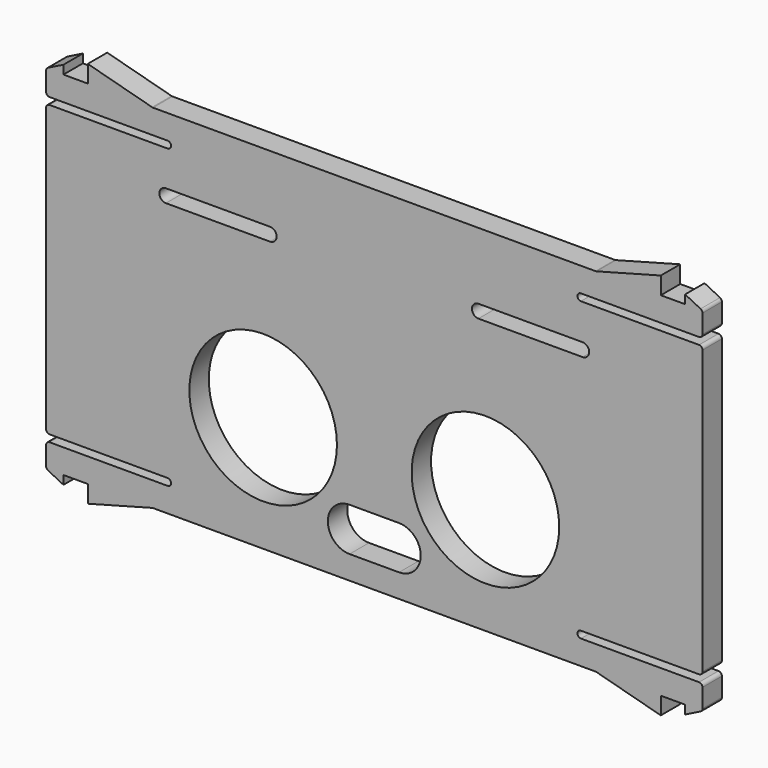
from build123d import *

# Parameters (mm, degrees)
PAD009_DEPTH    = 2.8
FILLET004_R     = 0.4
POCKET014_DEPTH = 2.801
SKETCH028_R     = 8.5
POCKET017_DEPTH = 2.801


with BuildPart() as part:
    # Sketch009 → Pad009 (new body)
    with BuildSketch(Plane.XZ.offset(60.5)):
        with BuildLine():
            Line((37.8, 3.2), (37.8, 0.4))
            Line((37.8, 0.4), (23.8, 0.4))
            ThreePointArc((23.8, 0.4), (23.4, 0), (23.8, -0.4))
            Line((23.8, -0.4), (37.8, -0.4))
            Line((37.8, -0.4), (37.8, -33.8))
            Line((37.8, -33.8), (23.8, -33.8))
            ThreePointArc((23.8, -33.8), (23.4, -34.2), (23.8, -34.6))
            Line((23.8, -34.6), (37.8, -34.6))
            Line((37.8, -34.6), (37.8, -37.4))
            Line((37.8, -37.4), (35.8, -38.4))
            Line((35.8, -38.4), (35.8, -37.4))
            Line((35.8, -37.4), (33, -37.4))
            Line((33, -37.4), (33, -39.4))
            Line((33, -39.4), (25.535898, -37.4))
            Line((25.535898, -37.4), (-25.535898, -37.4))
            Line((-25.535898, -37.4), (-33, -39.4))
            Line((-33, -39.4), (-33, -37.4))
            Line((-33, -37.4), (-35.8, -37.4))
            Line((-35.8, -38.4), (-35.8, -37.4))
            Line((-37.8, -37.4), (-35.8, -38.4))
            Line((-37.8, -37.4), (-37.8, -34.6))
            Line((-37.8, -34.6), (-23.8, -34.6))
            ThreePointArc((-23.8, -34.6), (-23.4, -34.2), (-23.8, -33.8))
            Line((-23.8, -33.8), (-37.8, -33.8))
            Line((-37.8, -33.8), (-37.8, -0.4))
            Line((-37.8, -0.4), (-23.8, -0.4))
            ThreePointArc((-23.8, -0.4), (-23.4, 0), (-23.8, 0.4))
            Line((-23.8, 0.4), (-37.8, 0.4))
            Line((-37.8, 0.4), (-37.8, 3.2))
            Line((-37.8, 3.2), (-35.8, 4.2))
            Line((-35.8, 4.2), (-35.8, 3.2))
            Line((-35.8, 3.2), (-33, 3.2))
            Line((-33, 3.2), (-33, 5.2))
            Line((-33, 5.2), (-25.535898, 3.2))
            Line((-25.535898, 3.2), (25.535898, 3.2))
            Line((25.535898, 3.2), (33, 5.2))
            Line((33, 5.2), (33, 3.2))
            Line((33, 3.2), (35.8, 3.2))
            Line((35.8, 3.2), (35.8, 4.2))
            Line((37.8, 3.2), (35.8, 4.2))
        make_face()
    extrude(amount=-PAD009_DEPTH)

    # Fillet004
    fillet004_edges = [part.edges().sort_by_distance(p)[0] for p in [
        (37.8, -59.1, -0.4),
        (37.8, -59.1, 0.4),
        (37.8, -59.1, 3.2),
        (25.535898, -59.1, 3.2),
        (-25.535898, -59.1, 3.2),
        (-37.8, -59.1, 3.2),
        (-37.8, -59.1, 0.4),
        (-37.8, -59.1, -0.4),
        (-37.8, -59.1, -33.8),
        (-37.8, -59.1, -34.6),
        (-37.8, -59.1, -37.4),
        (-25.535898, -59.1, -37.4),
        (25.535898, -59.1, -37.4),
        (37.8, -59.1, -37.4),
        (37.8, -59.1, -34.6),
        (37.8, -59.1, -33.8),
    ]]
    fillet(fillet004_edges, radius=FILLET004_R)

    # Sketch025 → Pocket014 (cut, through all)
    with BuildSketch(Plane.XZ.offset(60.5)):
        with BuildLine():
            ThreePointArc((-24, -4.49), (-24.755, -5.245), (-24, -6))
            Line((-24, -6), (-12, -6))
            ThreePointArc((-12, -6), (-11.245, -5.245), (-12, -4.49))
            Line((-24, -4.49), (-12, -4.49))
        make_face()
        with BuildLine():
            ThreePointArc((12, -4.49), (11.245, -5.245), (12, -6))
            Line((12, -6), (24, -6))
            ThreePointArc((24, -6), (24.755, -5.245), (24, -4.49))
            Line((12, -4.49), (24, -4.49))
        make_face()
    extrude(amount=-POCKET014_DEPTH, mode=Mode.SUBTRACT)

    # Sketch028 → Pocket017 (cut, through all)
    with BuildSketch(Plane.XZ.offset(60.5)):
        with Locations((-12.8, -24.1)):
            Circle(SKETCH028_R)
        with Locations((12.8, -24.1)):
            Circle(SKETCH028_R)
        with BuildLine():
            ThreePointArc((-2.85, -29.7), (-5.35, -32.2), (-2.85, -34.7))
            Line((-2.85, -34.7), (2.85, -34.7))
            ThreePointArc((2.85, -34.7), (5.35, -32.2), (2.85, -29.7))
            Line((-2.85, -29.7), (2.85, -29.7))
        make_face()
    extrude(amount=-POCKET017_DEPTH, mode=Mode.SUBTRACT)


solid = part.part
